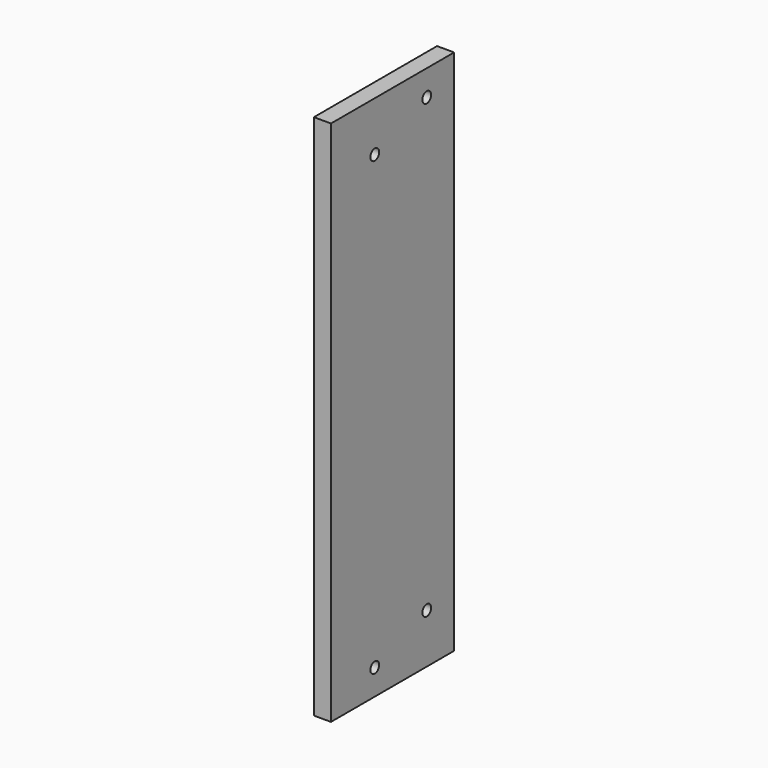
from build123d import *

# Parameters (mm, degrees)
CYLINDER019_R           = 1.6
CYLINDER019_DEPTH       = 40
CYLINDER019_PITCH_ANGLE = 90
CYLINDER018_R           = 1.6
CYLINDER018_DEPTH       = 40
CYLINDER018_PITCH_ANGLE = 90
CYLINDER017_R           = 1.6
CYLINDER017_DEPTH       = 40
CYLINDER016_R           = 1.6
CYLINDER016_DEPTH       = 70
CYLINDER016_ROLL_ANGLE  = 90
CYLINDER015_R           = 1.6
CYLINDER015_DEPTH       = 40
BOX015_W                = 5
BOX015_H                = 45
BOX015_DEPTH            = 154


with BuildPart() as cylinder100:
    # Cylinder019 → Cylinder019 (new body)
    with BuildSketch(Plane.XY):
        Circle(CYLINDER019_R)
    extrude(amount=CYLINDER019_DEPTH)


with BuildPart() as cylinder100_1:
    # Cylinder019 pitch: moved
    add(cylinder100.part.rotate(Axis((0, 0, 0), (0, 1, 0)), CYLINDER019_PITCH_ANGLE))


with BuildPart() as cylinder100_2:
    # Cylinder019 placement: moved
    add(cylinder100_1.part.moved(Location((-40, 12, 9.5))))


with BuildPart() as fusion011:
    # Cylinder018 → Cylinder018 (new body)
    with BuildSketch(Plane.XY):
        Circle(CYLINDER018_R)
    extrude(amount=CYLINDER018_DEPTH)


with BuildPart() as fusion011_1:
    # Cylinder018 pitch: moved
    add(fusion011.part.rotate(Axis((0, 0, 0), (0, 1, 0)), CYLINDER018_PITCH_ANGLE))


with BuildPart() as fusion011_2:
    # Cylinder018 placement: moved
    add(fusion011_1.part.moved(Location((-40, -7, 2.5))))

    # Fusion011: union Cylinder100
    add(cylinder100_2.part)


with BuildPart() as fusion012:
    # Cylinder017 → Cylinder017 (new body)
    with BuildSketch(Plane(origin=(-27.5, 7, -15), x_dir=(1, 0, 0), z_dir=(0, 0, 1))):
        Circle(CYLINDER017_R)
    extrude(amount=CYLINDER017_DEPTH)

    # Fusion012: union Fusion011
    add(fusion011_2.part)


with BuildPart() as fusion013:
    # Cylinder016 → Cylinder016 (new body)
    with BuildSketch(Plane.XY):
        Circle(CYLINDER016_R)
    extrude(amount=CYLINDER016_DEPTH)


with BuildPart() as fusion013_1:
    # Cylinder016 roll: moved
    add(fusion013.part.rotate(Axis((0, 0, 0), (1, 0, 0)), CYLINDER016_ROLL_ANGLE))


with BuildPart() as fusion013_2:
    # Cylinder016 placement: moved
    add(fusion013_1.part.moved(Location((-24, 39, 6))))

    # Fusion013: union Fusion012
    add(fusion012.part)


with BuildPart() as cylinder008:
    # Cylinder015 → Cylinder015 (new body)
    with BuildSketch(Plane(origin=(-20.5, -12, -15), x_dir=(1, 0, 0), z_dir=(0, 0, 1))):
        Circle(CYLINDER015_R)
    extrude(amount=CYLINDER015_DEPTH)


with BuildPart() as face_corner_holes013:
    # Fusion027 base: copy of Cylinder008
    add(cylinder008.part)

    # Fusion027: union Fusion013
    add(fusion013_2.part)


with BuildPart() as face_corner_holes013_1:
    # Fusion027 placement: moved
    add(face_corner_holes013.part.moved(Location((104, 0, 132))))


with BuildPart() as face_corner_holes001:
    # Fusion015 base: copy of Cylinder008
    add(cylinder008.part)

    # Fusion015: union Fusion013
    add(fusion013_2.part)


with BuildPart() as face_corner_holes001_1:
    # Fusion015 placement: moved
    add(face_corner_holes001.part.moved(Location((104, 0, 0))))


with BuildPart() as top_x:
    # Box015 → Box015 (new body)
    with BuildSketch(Plane(origin=(86, -23, -5), x_dir=(1, 0, 0), z_dir=(0, 0, 1))):
        with Locations((2.5, 22.5)):
            Rectangle(BOX015_W, BOX015_H)
    extrude(amount=BOX015_DEPTH)

    # Cut016: cut face-corner-holes001
    add(face_corner_holes001_1.part, mode=Mode.SUBTRACT)

    # Cut024: cut face-corner-holes013
    add(face_corner_holes013_1.part, mode=Mode.SUBTRACT)


solid = top_x.part
